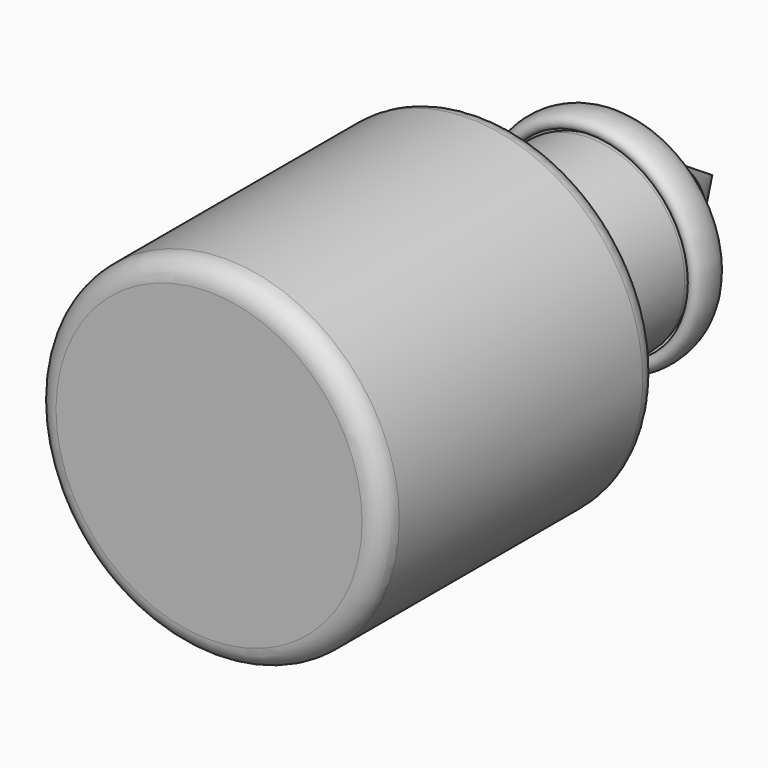
from build123d import *

# Parameters (mm, degrees)
F2_R = 5.08


with BuildPart() as f1:
    # F0 (on Top) → F1 (revolve)
    with BuildSketch(Plane.XY):
        with BuildLine():
            Line((0, 90.2128517628), (0, 75.3877460957))
            Line((0, 75.3877460957), (0, 69.409936024))
            add(Edge.make_bspline(
                [(0, 69.409936024), (4.2127209504, 69.4106978658), (12.5643103329, 70.4921303131), (12.3126921019, 55.4837662187), (26.8642272436, 60.3586441521), (22.5623469871, 52.2042124788), (28.1398528856, 50.8687639926), (27.7177290053, 64.4054135298), (13.7676746805, 58.1955172162), (15.8229788122, 73.5644538256), (3.7236539647, 73.7011581659)],
                knots=[0, 0, 0, 0, 0.1400282096, 0.2756121587, 0.4044626132, 0.500564398, 0.5686570845, 0.6949595487, 0.8180281671, 1, 1, 1, 1], degree=3))
            Line((3.7236539647, 73.7011581659), (3.7236539647, 76.0931372643))
            Line((3.7236539647, 76.0931372643), (7.4500651099, 78.7716731429))
            Line((7.4500651099, 78.7716731429), (0, 90.2128517628))
        make_face()
    revolve(axis=Axis((0, -0.0429525971, 0), (0, -1, 0)))


with BuildPart() as f1b:
    # F0 (on Top) → F1, piece 2 (revolve)
    with BuildSketch(Plane.XY):
        Polygon((35.086043179, -58.0665655434), (0, -58.0665655434), (0, -64.479701221), (42.7207313478, -64.479701221), (42.7207313478, 18.3435097877), (23.4490204602, 29.4401170583), (23.4490204602, 57.482779026), (16.9861074537, 57.482779026), (16.9861074537, 24.3603456765), (35.086043179, 14.2719054629), align=None)
    revolve(axis=Axis((0, -0.0429525971, 0), (0, -1, 0)))

    # F2
    f2_edges = [f1b.edges().sort_by_distance(p)[0] for p in [
        (-42.720731, 18.34351, 0),
        (-23.44902, 57.482779, 0),
        (-42.720731, -64.479701, 0),
        (42.720731, -23.068096, 0),
        (-23.44902, 29.440117, 0),
        (33.084876, 23.891813, 0),
        (23.44902, 43.461448, 0),
    ]]
    fillet(f2_edges, radius=F2_R)


solid = Compound([f1.part, f1b.part])
